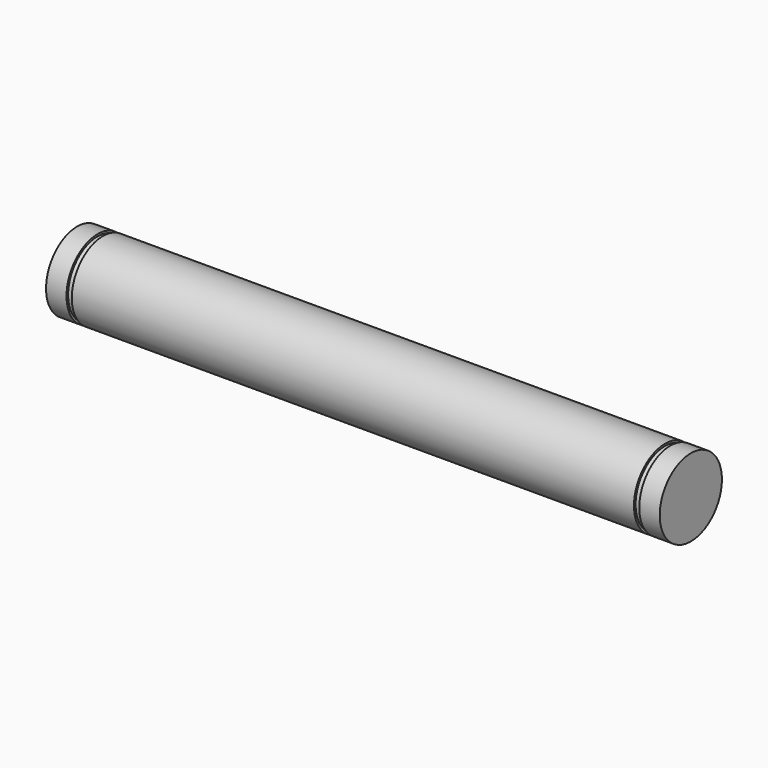
from build123d import *

# Parameters (mm, degrees)
F0_R     = 9.5
F1_DEPTH = 150
F2_W     = 1.3
F2_H     = 0.5


with BuildPart() as f1:
    # F0 (on Right) → F1 (new body)
    with BuildSketch(Plane.YZ):
        Circle(F0_R)
    extrude(amount=-F1_DEPTH)

    # F2 (on Front) → F3 (revolve, cut)
    with BuildSketch(Plane.XZ):
        with Locations((-5.65, 9.25)):
            Rectangle(F2_W, F2_H)
        with Locations((-144.35, 9.25)):
            Rectangle(F2_W, F2_H)
    revolve(axis=Axis((-75, 0, 0), (-1, 0, 0)), mode=Mode.SUBTRACT)


solid = f1.part
